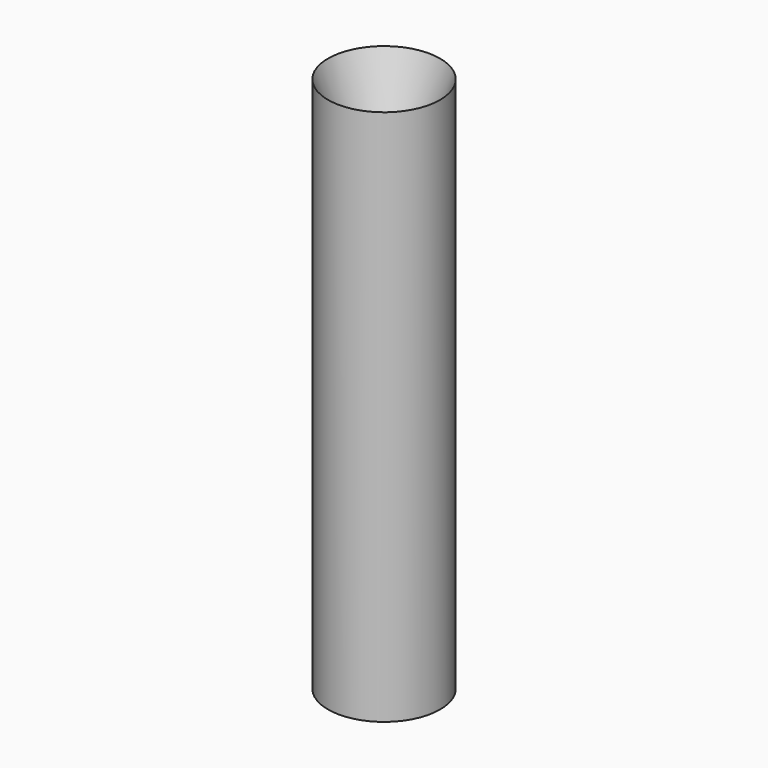
from build123d import *


with BuildPart() as part:
    # Sketch → Revolution (revolve)
    with BuildSketch(Plane.XZ):
        Polygon((8, 0), (0, 0), (0, 37.71), (0, 54.35125), (3, 62.71), (8, 76.64125), (8, 62.71), align=None)
    revolve(axis=Axis((0, 0, 0), (0, 0, 1)))


solid = part.part
